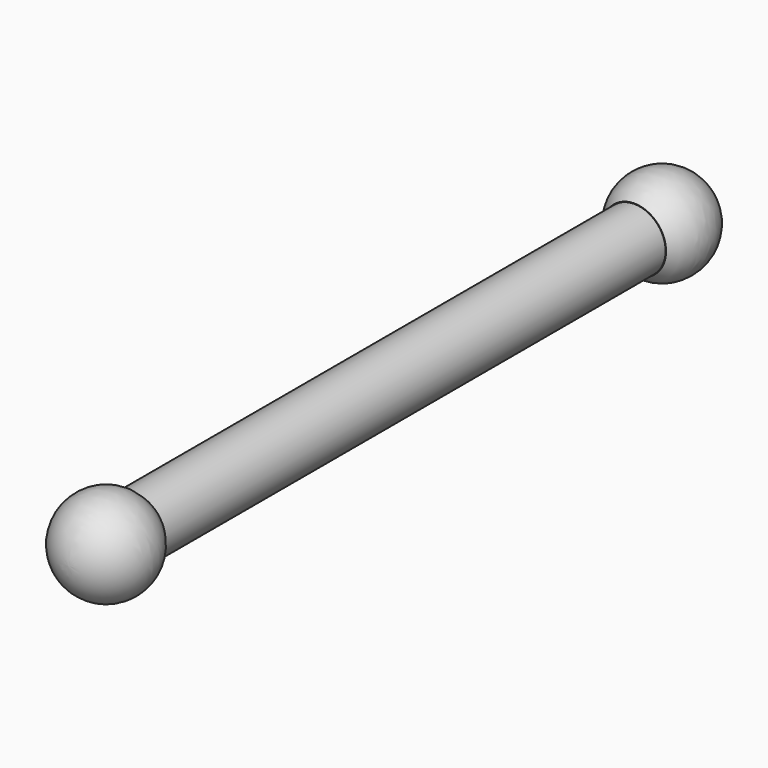
from build123d import *

# Parameters (mm, degrees)
F0_R     = 6
F1_DEPTH = 60


with BuildPart() as f1:
    # F0 (on Front) → F1 (new body, symmetric)
    with BuildSketch(Plane.XZ):
        Circle(F0_R)
    extrude(amount=F1_DEPTH, both=True)

    # F2 (on Right) → F3 (revolve)
    with BuildSketch(Plane.YZ):
        with BuildLine():
            Line((-60, 0), (-60, 6.090536))
            ThreePointArc((-60, 6.090536), (-69.894521, 8.385554), (-75.626113, 0))
            Line((-75.626113, 0), (-60, 0))
        make_face()
    revolve(axis=Axis((0, -73.810453, 0), (0, -1, 0)))


with BuildPart() as f4_1:
    # F4: instance of F1
    add(f1.part.mirror(Plane.XZ))


solid = Compound([f1.part, f4_1.part])
